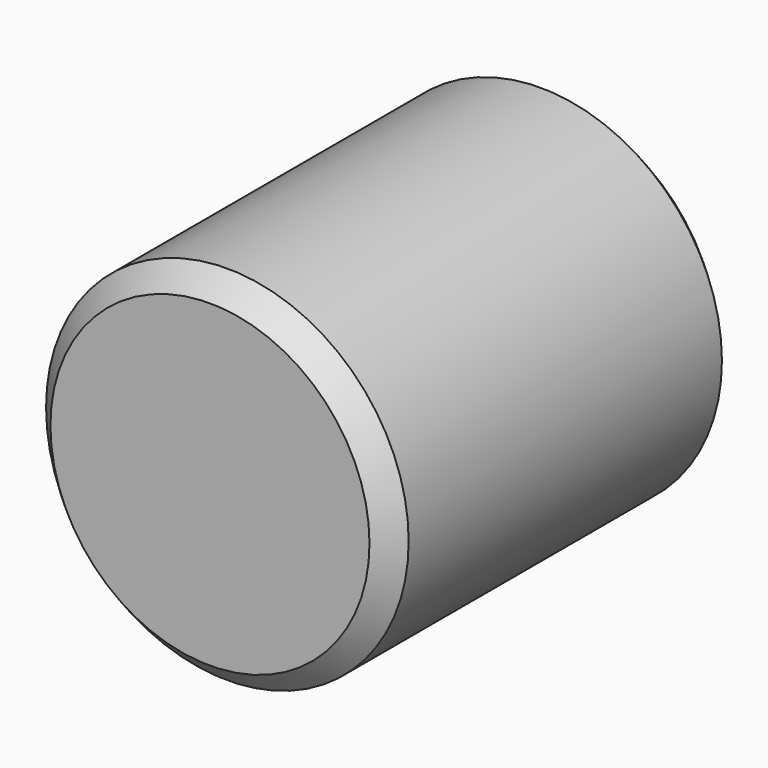
from build123d import *

# Parameters (mm, degrees)
F0_R     = 2.5
F1_DEPTH = 6
F2_SIZE  = 0.3
F4_DEPTH = 3


with BuildPart() as f1:
    # F0 (on Front) → F1 (new body)
    with BuildSketch(Plane.XZ):
        Circle(F0_R)
    extrude(amount=F1_DEPTH)

    # F2
    f2_edges = [f1.edges().sort_by_distance(p)[0] for p in [
        (-2.5, -6, 0),
        (-2.5, 0, 0),
    ]]
    chamfer(f2_edges, length=F2_SIZE)

    # F3 (on face) → F4 (cut)
    with BuildSketch(Plane(origin=(0, 0, 0), x_dir=(-1, 0, 0), z_dir=(0, 1, 0))):
        Polygon((0.414277, 1.382645), (-0.990268, 1.050097), (-1.404544, -0.332549), (-0.414277, -1.382645), (0.990268, -1.050097), (1.404544, 0.332549), align=None)
    extrude(amount=-F4_DEPTH, mode=Mode.SUBTRACT)


solid = f1.part
